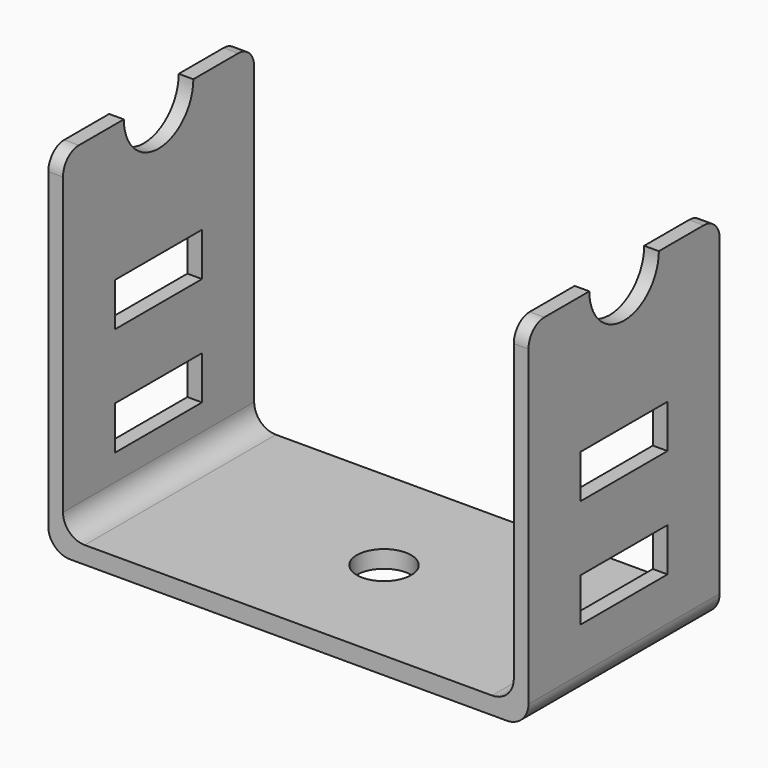
from build123d import *

# Parameters (mm, degrees)
F0_W     = 10
F0_H     = 4
F1_DEPTH = 22.1
F2_W     = 41.5
F2_H     = 43.485662
F3_DEPTH = 31
F4_R     = 2
F5_R     = 2
F6_R     = 2.5
F7_DEPTH = 25


with BuildPart() as f1:
    # F0 (on Right) → F1 (new body, symmetric)
    with BuildSketch(Plane.YZ):
        with BuildLine():
            Line((-11, 30.769719), (-11, 0))
            Line((-11, 0), (11, 0))
            Line((11, 0), (11, 30.769719))
            ThreePointArc((11, 30.769719), (10.463923, 32.063923), (9.169719, 32.6))
            Line((9.169719, 32.6), (4, 32.6))
            ThreePointArc((4, 32.6), (0, 28.6), (-4, 32.6))
            Line((-4, 32.6), (-9.169719, 32.6))
            ThreePointArc((-9.169719, 32.6), (-10.463923, 32.063923), (-11, 30.769719))
        make_face()
        with Locations((0, 8)):
            Rectangle(F0_W, F0_H, mode=Mode.SUBTRACT)
        with Locations((0, 18)):
            Rectangle(F0_W, F0_H, mode=Mode.SUBTRACT)
    extrude(amount=F1_DEPTH, both=True)

    # F2 (on face) → F3 (cut)
    with BuildSketch(Plane.XY.offset(32.6)):
        with Locations((0, -0.558951)):
            Rectangle(F2_W, F2_H)
    extrude(amount=-F3_DEPTH, mode=Mode.SUBTRACT)

    # F4
    f4_edges = [f1.edges().sort_by_distance(p)[0] for p in [
        (-22.1, 0, 0),
    ]]
    fillet(f4_edges, radius=F4_R)

    # F5
    f5_edges = [f1.edges().sort_by_distance(p)[0] for p in [
        (22.1, 0, 0),
        (-20.75, 0, 1.6),
        (20.75, 0, 1.6),
    ]]
    fillet(f5_edges, radius=F5_R)

    # F6 (on face) → F7 (cut)
    with BuildSketch(Plane.XY.offset(1.6)):
        Circle(F6_R)
    extrude(amount=-F7_DEPTH, mode=Mode.SUBTRACT)


solid = f1.part
